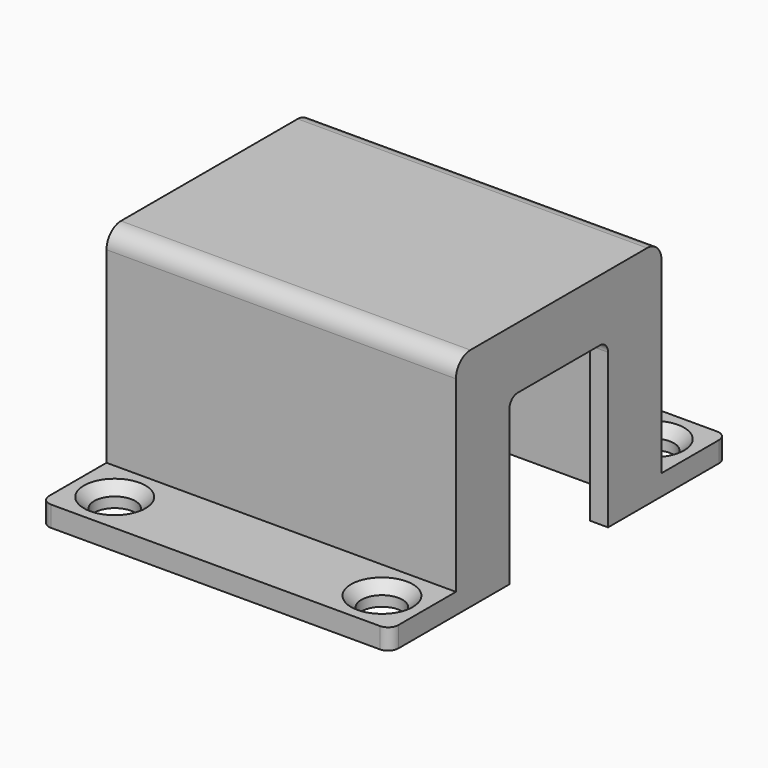
from build123d import *

# Parameters (mm, degrees)
PAD_DEPTH       = 34
SKETCH002_W     = 21.5
SKETCH002_H     = 30.5
POCKET_DEPTH    = 21.5
POCKET001_DEPTH = 5
POCKET002_DEPTH = 5
SKETCH004_W     = 2
SKETCH004_H     = 34
PAD001_DEPTH    = 8
SKETCH005_R     = 2
POCKET003_DEPTH = 5
CHAMFER_SIZE    = 1
SKETCH006_W     = 2
SKETCH006_H     = 34
PAD002_DEPTH    = 8
SKETCH007_R     = 2
POCKET004_DEPTH = 5
CHAMFER001_SIZE = 1
FILLET_R        = 1


with BuildPart() as part:
    # Sketch → Pad (new body)
    with BuildSketch(Plane.YZ):
        with BuildLine():
            Line((-11.011805, 9.998219), (10.488195, 9.998219))
            ThreePointArc((12.238195, 8.248219), (11.725632, 9.485655), (10.488195, 9.998219))
            Line((12.238195, 8.248219), (12.238195, -12.001781))
            Line((12.238195, -12.001781), (-12.761805, -12.001781))
            Line((-12.761805, -12.001781), (-12.761805, 8.248219))
            ThreePointArc((-11.011805, 9.998219), (-12.249242, 9.485655), (-12.761805, 8.248219))
        make_face()
    extrude(amount=PAD_DEPTH)

    # Sketch002 (on Face2 of Pad) → Pocket (cut)
    with BuildSketch(Plane.YX.offset(12.001781)):
        with Locations((-0.261805, 17)):
            Rectangle(SKETCH002_W, SKETCH002_H)
    extrude(amount=-POCKET_DEPTH, mode=Mode.SUBTRACT)

    # Sketch001 (on Face7 of Pad) → Pocket001 (cut)
    with BuildSketch(Plane(origin=(0, 0, 0), x_dir=(0, 1, 0), z_dir=(-1, 0, 0))):
        with BuildLine():
            Line((7.488195, 12.001781), (-8.011805, 12.001781))
            Line((-8.011805, 12.001781), (-8.011805, -2.498219))
            ThreePointArc((-8.011805, -2.498219), (-7.718912, -3.205325), (-7.011805, -3.498219))
            Line((-7.011805, -3.498219), (6.488195, -3.498219))
            ThreePointArc((6.488195, -3.498219), (7.195302, -3.205325), (7.488195, -2.498219))
            Line((7.488195, -2.498219), (7.488195, 12.001781))
        make_face()
    extrude(amount=-POCKET001_DEPTH, mode=Mode.SUBTRACT)

    # Sketch003 (on Face5 of Pocket001) → Pocket002 (cut)
    with BuildSketch(Plane.YZ.offset(34)):
        with BuildLine():
            Line((-6.261805, -12.001781), (5.738195, -12.001781))
            Line((5.738195, -12.001781), (5.738195, 2.998219))
            ThreePointArc((5.738195, 2.998219), (5.445302, 3.705325), (4.738195, 3.998219))
            Line((4.738195, 3.998219), (-5.261805, 3.998219))
            ThreePointArc((-5.261805, 3.998219), (-5.968912, 3.705325), (-6.261805, 2.998219))
            Line((-6.261805, 2.998219), (-6.261805, -12.001781))
        make_face()
    extrude(amount=-POCKET002_DEPTH, mode=Mode.SUBTRACT)

    # Sketch004 (on Face17 of Pocket002) → Pad001 (join)
    with BuildSketch(Plane(origin=(0, -12.761805, 0), x_dir=(0, 0, -1), z_dir=(0, -1, 0))):
        with Locations((11.001781, 17)):
            Rectangle(SKETCH004_W, SKETCH004_H)
    extrude(amount=PAD001_DEPTH)

    # Sketch005 (on Face28 of Pad001) → Pocket003 (cut)
    with BuildSketch(Plane(origin=(0, 0, -10.001781), x_dir=(0, -1, 0), z_dir=(0, 0, 1))):
        with Locations((16.761805, 30)):
            Circle(SKETCH005_R)
        with Locations((16.761805, 4)):
            Circle(SKETCH005_R)
    extrude(amount=-POCKET003_DEPTH, mode=Mode.SUBTRACT)

    # Chamfer
    chamfer_edges = [part.edges().sort_by_distance(p)[0] for p in [
        (4, -14.761805, -10.001781),
        (30, -14.761805, -10.001781),
    ]]
    chamfer(chamfer_edges, length=CHAMFER_SIZE)

    # Sketch006 (on Face15 of Chamfer) → Pad002 (join)
    with BuildSketch(Plane.ZX.offset(12.238195)):
        with Locations((-11.001781, 17)):
            Rectangle(SKETCH006_W, SKETCH006_H)
    extrude(amount=PAD002_DEPTH)

    # Sketch007 (on Face34 of Pad002) → Pocket004 (cut)
    with BuildSketch(Plane(origin=(0, 0, -10.001781), x_dir=(0, -1, 0), z_dir=(0, 0, 1))):
        with Locations((-16.238195, 30)):
            Circle(SKETCH007_R)
        with Locations((-16.238195, 4)):
            Circle(SKETCH007_R)
    extrude(amount=-POCKET004_DEPTH, mode=Mode.SUBTRACT)

    # Chamfer001
    chamfer001_edges = [part.edges().sort_by_distance(p)[0] for p in [
        (30, 18.238195, -10.001781),
        (4, 18.238195, -10.001781),
    ]]
    chamfer(chamfer001_edges, length=CHAMFER001_SIZE)

    # Fillet
    fillet_edges = [part.edges().sort_by_distance(p)[0] for p in [
        (0, -20.761805, -11.001781),
        (34, -20.761805, -11.001781),
        (0, 20.238195, -11.001781),
        (34, 20.238195, -11.001781),
    ]]
    fillet(fillet_edges, radius=FILLET_R)


solid = part.part
